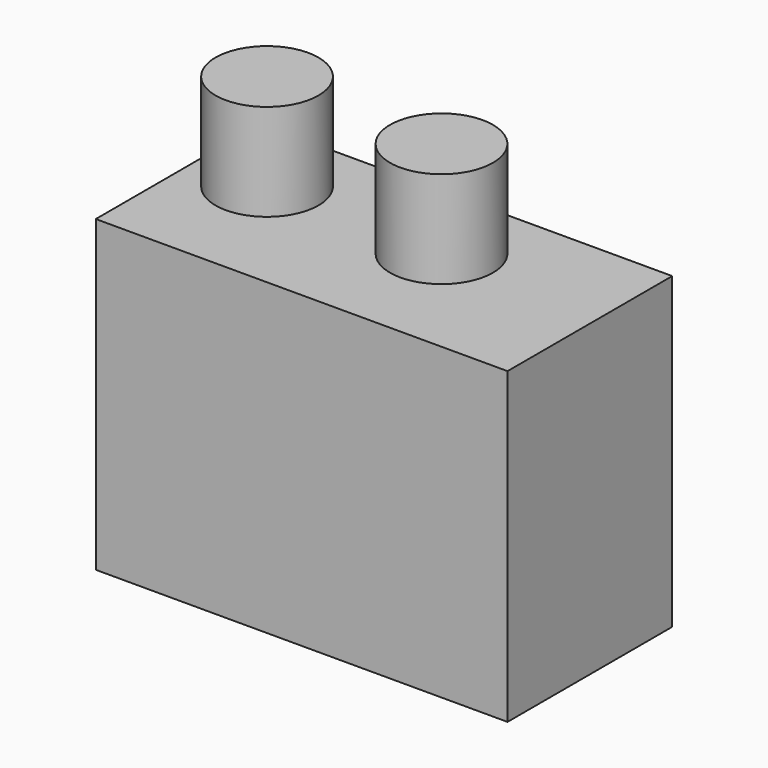
from build123d import *

# Parameters (mm, degrees)
F0_W     = 50.8
F0_H     = 38.1
F1_DEPTH = 25.4
F2_R     = 6.35
F3_DEPTH = 11.938
F4_R     = 8.89
F5_DEPTH = 6.35


with BuildPart() as f1:
    # F0 (on Front) → F1 (new body)
    with BuildSketch(Plane.XZ):
        with Locations((-25.4, -19.05)):
            Rectangle(F0_W, F0_H)
    extrude(amount=F1_DEPTH)

    # F2 (on Top) → F3 (join)
    with BuildSketch(Plane.XY):
        with Locations((-42.16706, -9.784626)):
            Circle(F2_R)
        with Locations((-20.268146, -10.25056)):
            Circle(F2_R)
    extrude(amount=F3_DEPTH)

    # F4 (on Front) → F5 (join)
    with BuildSketch(Plane.XZ):
        with Locations((-15.375839, -19.802213)):
            Circle(F4_R)
        with Locations((-37.274752, -19.802213)):
            Circle(F4_R)
    extrude(amount=-F5_DEPTH)


solid = f1.part
